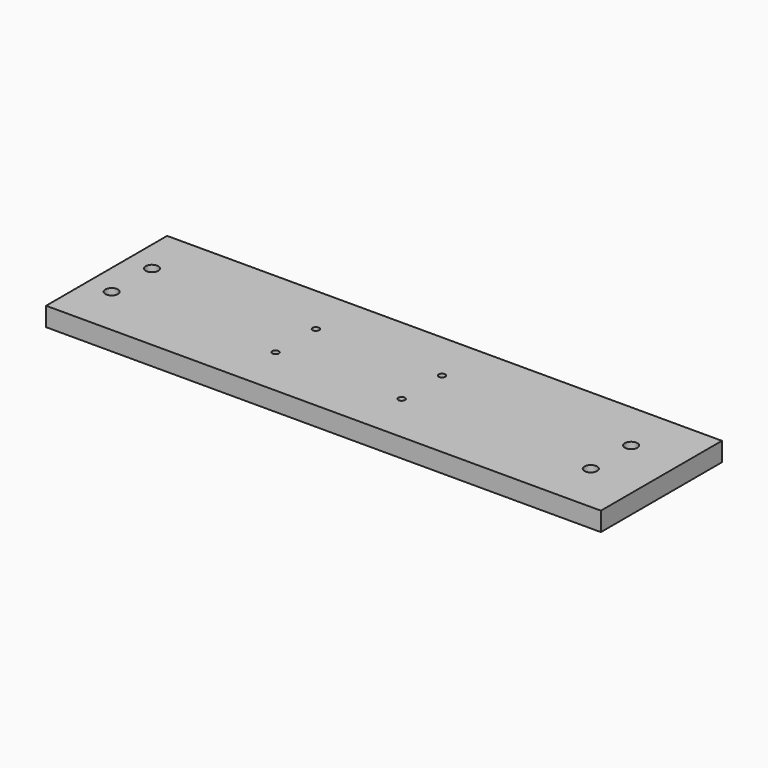
from build123d import *

# Parameters (mm, degrees)
F0_W     = 11
F0_H     = 3
F0_R     = 0.125
F0_R_2   = 0.065
F1_DEPTH = 0.1875


with BuildPart() as f1:
    # F0 (on Top) → F1 (new body, symmetric)
    with BuildSketch(Plane.XY):
        Rectangle(F0_W, F0_H)
        with Locations((-5, -0.5)):
            Circle(F0_R, mode=Mode.SUBTRACT)
        with Locations((-1.75, -0.5)):
            Circle(F0_R_2, mode=Mode.SUBTRACT)
        with Locations((0.75, -0.5)):
            Circle(F0_R_2, mode=Mode.SUBTRACT)
        with Locations((4.5, -0.5)):
            Circle(F0_R, mode=Mode.SUBTRACT)
        with Locations((-5, 0.5)):
            Circle(F0_R, mode=Mode.SUBTRACT)
        with Locations((-1.75, 0.5)):
            Circle(F0_R_2, mode=Mode.SUBTRACT)
        with Locations((0.75, 0.5)):
            Circle(F0_R_2, mode=Mode.SUBTRACT)
        with Locations((4.5, 0.5)):
            Circle(F0_R, mode=Mode.SUBTRACT)
    extrude(amount=F1_DEPTH, both=True)


solid = f1.part
